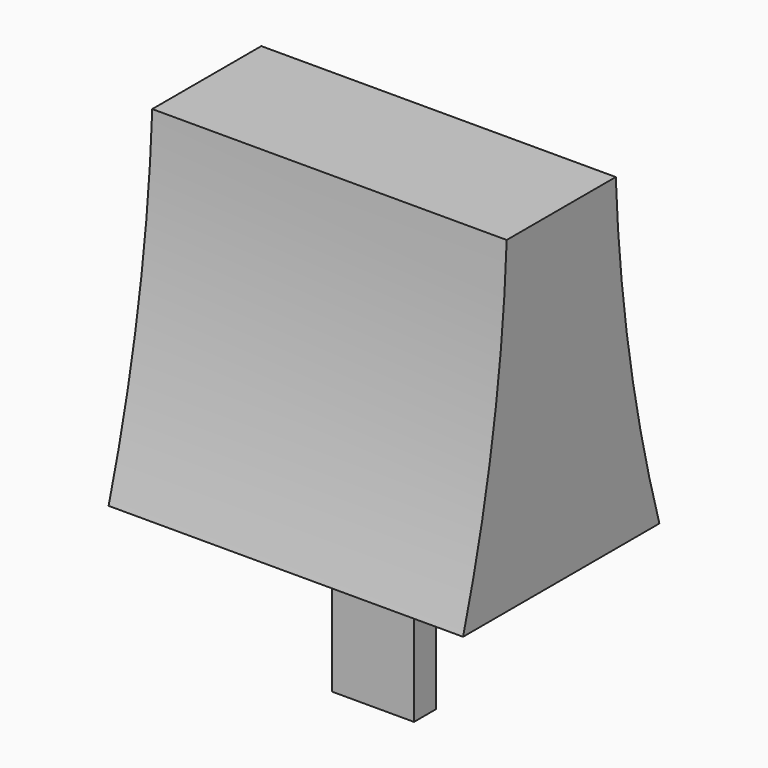
from build123d import *

# Parameters (mm, degrees)
F0_W     = 3
F0_H     = 1
F1_DEPTH = 6
F3_DEPTH = 6.5


with BuildPart() as f1:
    # F0 (on Top) → F1 (new body)
    with BuildSketch(Plane.XY):
        Rectangle(F0_W, F0_H)
    extrude(amount=F1_DEPTH)

    # F2 (on Right) → F3 (join, symmetric)
    with BuildSketch(Plane.YZ):
        with BuildLine():
            Line((-4.5, 6), (4.5, 6))
            ThreePointArc((4.5, 6), (3.133674, 11.938946), (2.5, 18))
            Line((2.5, 18), (-2.5, 18))
            ThreePointArc((-2.5, 18), (-3.133674, 11.938946), (-4.5, 6))
        make_face()
    extrude(amount=F3_DEPTH, both=True)


solid = f1.part
